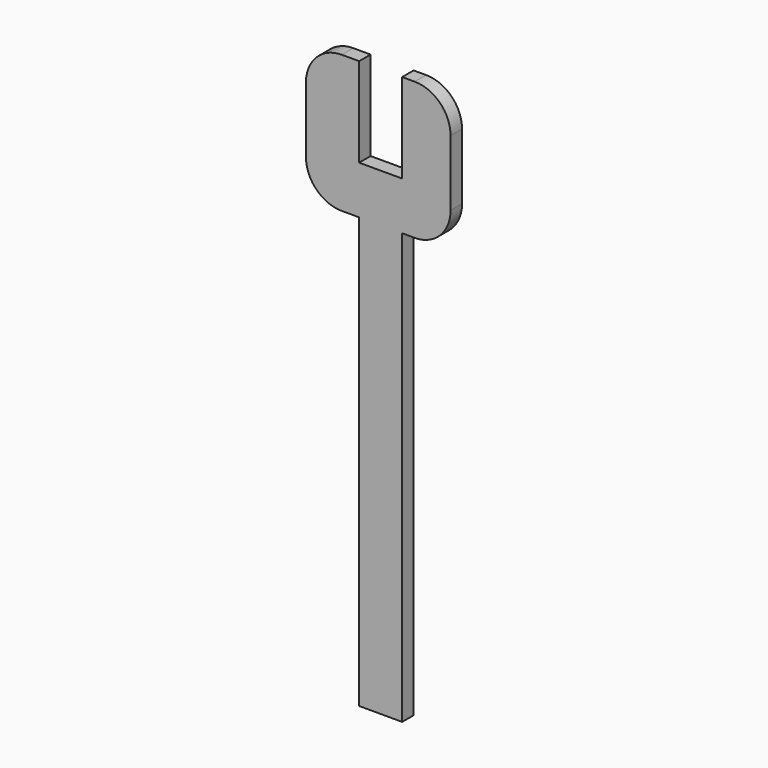
from build123d import *

# Parameters (mm, degrees)
F1_DEPTH = 2.54


with BuildPart() as f1:
    # F0 (on Front) → F1 (new body)
    with BuildSketch(Plane.XZ):
        with BuildLine():
            Line((-32.750378, -46.734172), (-32.750378, 29.465828))
            Line((-32.750378, 29.465828), (-30.525683, 29.465828))
            ThreePointArc((-30.525683, 29.465828), (-26.035555, 31.3257), (-24.175683, 35.815828))
            Line((-24.175683, 35.815828), (-24.175683, 47.469675))
            ThreePointArc((-24.175683, 47.469675), (-26.035555, 51.959803), (-30.525683, 53.819675))
            Line((-30.525683, 53.819675), (-32.750378, 53.819675))
            Line((-32.750378, 53.819675), (-32.750378, 37.990361))
            Line((-32.750378, 37.990361), (-40.370378, 37.990361))
            Line((-40.370378, 37.990361), (-40.370378, 53.819675))
            Line((-40.370378, 53.819675), (-43.440397, 53.819675))
            ThreePointArc((-43.440397, 53.819675), (-47.930525, 51.959803), (-49.790397, 47.469675))
            Line((-49.790397, 47.469675), (-49.790397, 35.815828))
            ThreePointArc((-49.790397, 35.815828), (-47.930525, 31.3257), (-43.440397, 29.465828))
            Line((-43.440397, 29.465828), (-40.370378, 29.465828))
            Line((-40.370378, 29.465828), (-40.370378, -46.734172))
            Line((-40.370378, -46.734172), (-32.750378, -46.734172))
        make_face()
    extrude(amount=F1_DEPTH)


solid = f1.part
